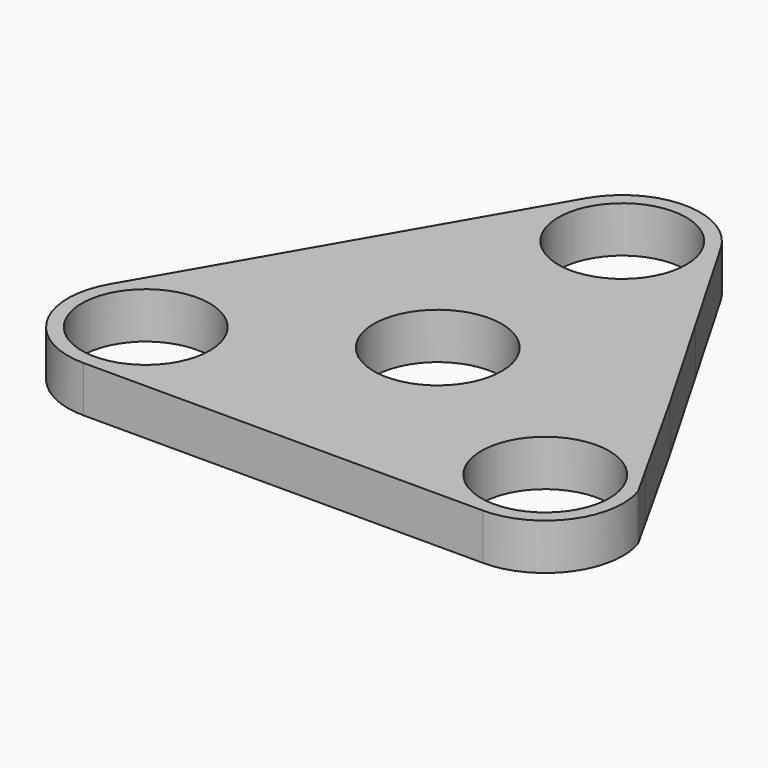
from build123d import *

# Parameters (mm, degrees)
F1_R     = 13
F2_DEPTH = 4
F0_R     = 13.5
F0_R_2   = 11.1
F3_DEPTH = 4


with BuildPart() as f2:
    # F1 (on Top) → F2 (new body, symmetric)
    with BuildSketch(Plane.XY):
        with BuildLine():
            Line((-18.5, 4.9074772881), (-42.2068053795, -8.7796531794))
            ThreePointArc((-42.2068053795, -8.7796531794), (-23.7654624284, -13.7209961304), (-28.7068053795, -32.1623390815))
            Line((-28.7068053795, -32.1623390815), (-5, -18.4752086141))
            ThreePointArc((-5, -18.4752086141), (0, -17.1354626519), (5, -18.4752086141))
            Line((5, -18.4752086141), (29.0423372789, -32.356058514))
            ThreePointArc((29.0423372789, -32.356058514), (24.1540880228, -14.0237663858), (42.4982086314, -9.180094787))
            Line((42.4982086314, -9.180094787), (18.4579555046, 4.8558277649))
            ThreePointArc((18.4579555046, 4.8558277649), (14.8276172549, 8.5127375657), (13.5, 13.4916709378))
            Line((13.5, 13.4916709378), (13.5, 40.1839444775))
            ThreePointArc((13.5, 40.1839444775), (0, 26.6839444775), (-13.5, 40.1839444775))
            Line((-13.5, 40.1839444775), (-13.5, 13.567731326))
            ThreePointArc((-13.5, 13.567731326), (-14.8397459622, 8.567731326), (-18.5, 4.9074772881))
        make_face()
        Circle(F1_R, mode=Mode.SUBTRACT)
    extrude(amount=F2_DEPTH, both=True)

    # F0 (on Top) → F3 (join, symmetric)
    with BuildSketch(Plane.XY):
        with BuildLine():
            ThreePointArc((11.6913429511, 46.75), (13.0399986549, 43.4940571089), (13.5, 40))
            ThreePointArc((13.5, 40), (-3.4940571089, 26.9600013451), (-11.6913429511, 46.75))
            Line((-11.6913429511, 46.75), (-23.1661795512, 26.875))
            Line((-23.1661795512, 26.875), (-34.6410161514, 7))
            Line((-34.6410161514, 7), (-46.3323591025, -13.25))
            ThreePointArc((-46.3323591025, -13.25), (-31.1469590425, -6.9600013451), (-21.1410161514, -20))
            ThreePointArc((-21.1410161514, -20), (-25.0950746054, -29.545941546), (-34.6410161514, -33.5))
            Line((-34.6410161514, -33.5), (-11.2583302492, -33.5))
            Line((-11.2583302492, -33.5), (11.6913429511, -33.5))
            Line((11.6913429511, -33.5), (34.6410161514, -33.5))
            ThreePointArc((34.6410161514, -33.5), (22.3389863603, -14.4403180828), (44.7736639401, -11.0792685956))
            Line((44.7736639401, -11.0792685956), (34.6410161514, 7))
            Line((34.6410161514, 7), (23.1661795512, 26.875))
            Line((23.1661795512, 26.875), (11.6913429511, 46.75))
        make_face()
        Circle(F0_R, mode=Mode.SUBTRACT)
        with BuildLine():
            ThreePointArc((-11.6913429511, 46.75), (-3.4940571089, 26.9600013451), (13.5, 40))
            ThreePointArc((13.5, 40), (13.0399986549, 43.4940571089), (11.6913429511, 46.75))
            ThreePointArc((11.6913429511, 46.75), (0, 53.5), (-11.6913429511, 46.75))
        make_face()
        with Locations((0, 40)):
            Circle(F0_R_2, mode=Mode.SUBTRACT)
        with BuildLine():
            ThreePointArc((-21.1410161514, -20), (-31.1469590425, -6.9600013451), (-46.3323591025, -13.25))
            ThreePointArc((-46.3323591025, -13.25), (-46.3323591025, -26.75), (-34.6410161514, -33.5))
            ThreePointArc((-34.6410161514, -33.5), (-25.0950746054, -29.545941546), (-21.1410161514, -20))
        make_face()
        with Locations((-34.6410161514, -20)):
            Circle(F0_R_2, mode=Mode.SUBTRACT)
        Circle(F0_R)
        Circle(F0_R_2, mode=Mode.SUBTRACT)
        with BuildLine():
            Line((47.538878177, -16.0131271444), (44.7736639401, -11.0792685956))
            ThreePointArc((44.7736639401, -11.0792685956), (22.3389863603, -14.4403180828), (34.6410161514, -33.5))
            ThreePointArc((34.6410161514, -33.5), (44.1869576974, -29.545941546), (48.1410161514, -20))
            ThreePointArc((48.1410161514, -20), (47.989632884, -17.9839565166), (47.538878177, -16.0131271444))
        make_face()
        with Locations((34.6410161514, -20)):
            Circle(F0_R_2, mode=Mode.SUBTRACT)
    extrude(amount=F3_DEPTH, both=True)


solid = f2.part
